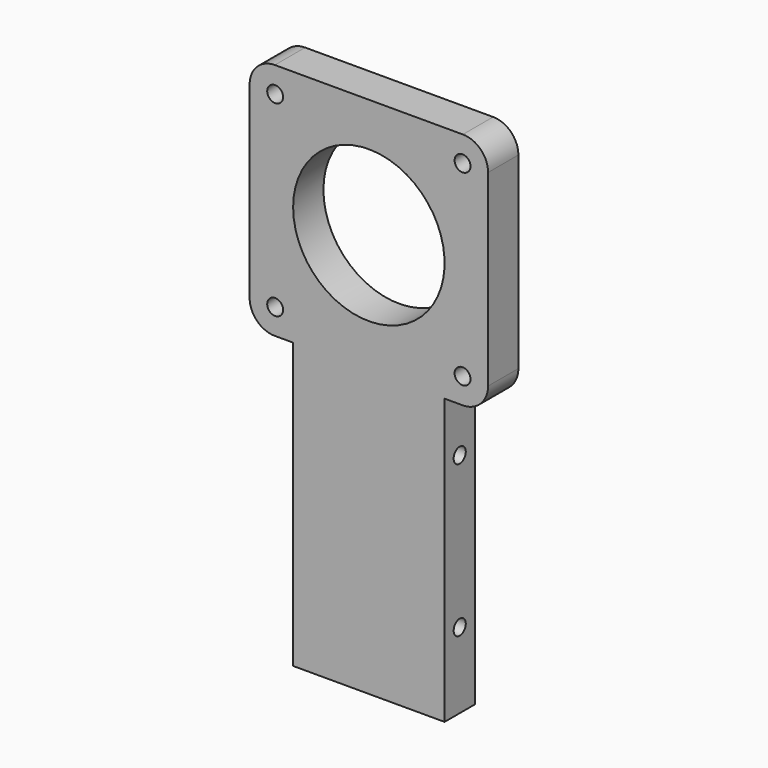
from build123d import *

# Parameters (mm, degrees)
F0_W      = 59.9948
F0_H      = 131.5974
F1_DEPTH  = 9.525
F4_D      = 4
F2_W      = 10.9474
F2_H      = 71.6026
F5_DEPTH  = 9.526
F6_R      = 6.35
F8_D      = 38.1
F10_D     = 3.81
F10_DEPTH = 12.7
F10_TIP   = 1.1446394792
F12_D     = 3.81
F12_DEPTH = 12.7
F12_TIP   = 1.1446394792


with BuildPart() as f1:
    # F0 (on Front) → F1 (new body)
    with BuildSketch(Plane.XZ):
        with Locations((29.9974, 65.7987)):
            Rectangle(F0_W, F0_H)
    extrude(amount=-F1_DEPTH)

    # F4 (through all)
    with Locations(Plane.XZ):
        with Locations((6.4262, 125.1712), (6.4262, 78.0288), (53.5686, 78.0288), (53.5686, 125.1712)):
            Hole(F4_D / 2)

    # F2 (on face) → F5 (cut, through all)
    with BuildSketch(Plane.XZ):
        with Locations((5.4737, 35.8013)):
            Rectangle(F2_W, F2_H)
        with Locations((54.5211, 35.8013)):
            Rectangle(F2_W, F2_H)
    extrude(amount=-F5_DEPTH, mode=Mode.SUBTRACT)

    # F6
    f6_edges = [f1.edges().sort_by_distance(p)[0] for p in [
        (0, 4.7625, 131.5974),
        (59.9948, 4.7625, 131.5974),
        (0, 4.7625, 71.6026),
        (59.9948, 4.7625, 71.6026),
    ]]
    fillet(f6_edges, radius=F6_R)

    # F8 (through all)
    with Locations(Plane.XZ):
        with Locations((29.9974, 101.6)):
            Hole(F8_D / 2)

    # F10
    with Locations(Plane.YZ.offset(49.0474)):
        with Locations((4.7625, 57.15), (4.7625, 19.05)):
            Hole(F10_D / 2, depth=F10_DEPTH)
            with Locations((0, 0, -(F10_DEPTH + F10_TIP / 2))):  # 118° drill point
                Cone(0, F10_D / 2, F10_TIP, mode=Mode.SUBTRACT)

    # F12
    with Locations(Plane(origin=(10.9474, 0, 0), x_dir=(0, -1, 0), z_dir=(-1, 0, 0))):
        with Locations((-4.7625, 57.15), (-4.7625, 19.05)):
            Hole(F12_D / 2, depth=F12_DEPTH)
            with Locations((0, 0, -(F12_DEPTH + F12_TIP / 2))):  # 118° drill point
                Cone(0, F12_D / 2, F12_TIP, mode=Mode.SUBTRACT)


solid = f1.part
